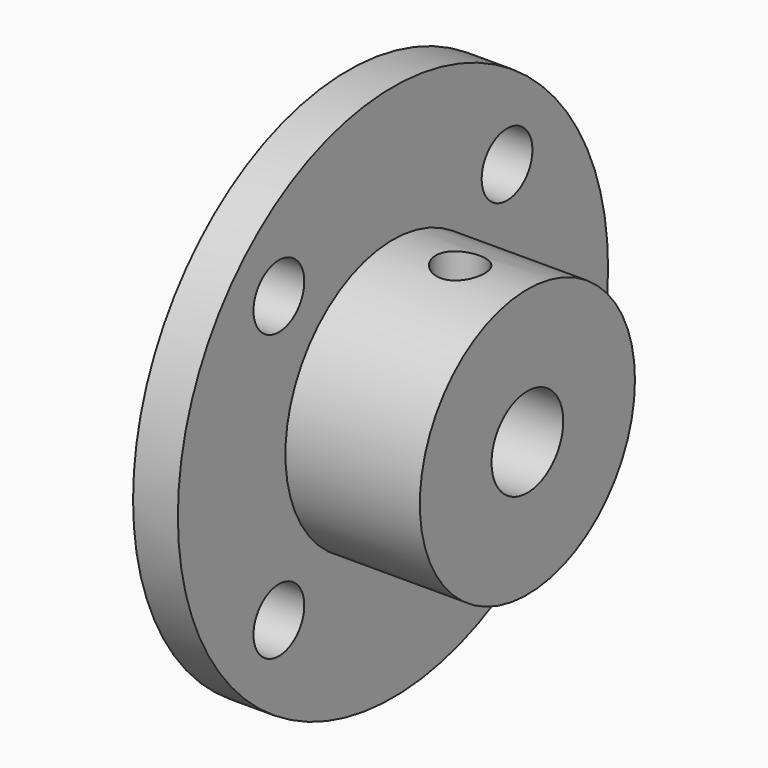
from build123d import *

# Parameters (mm, degrees)
F0_R     = 19.05
F1_DEPTH = 3.175
F2_R     = 9.525
F3_DEPTH = 9.525
F5_D     = 6.35
F5_DEPTH = 9.525
F5_TIP   = 1.9077324654
F8_D     = 3.4544
F8_DEPTH = 9.525
F8_START = 0.1579085
F8_TIP   = 1.0378064612
F10_D    = 4.4958


with BuildPart() as f1:
    # F0 (on Right) → F1 (new body)
    with BuildSketch(Plane.YZ):
        Circle(F0_R)
    extrude(amount=F1_DEPTH)

    # F2 (on face) → F3 (join)
    with BuildSketch(Plane.YZ.offset(3.175)):
        Circle(F2_R)
    extrude(amount=F3_DEPTH)

    # F5
    with Locations(Plane.YZ.offset(12.7)):
        with Locations((0, 0)):
            Hole(F5_D / 2, depth=F5_DEPTH)
            with Locations((0, 0, -(F5_DEPTH + F5_TIP / 2))):  # 118° drill point
                Cone(0, F5_D / 2, F5_TIP, mode=Mode.SUBTRACT)

    # F8
    # its depths count from where the whole tool has entered the part; down to there all is cleared
    with Locations(Plane.XY.offset(9.525).offset(-F8_START)):
        with Locations((7.9375, 0)):
            Hole(F8_D / 2, depth=F8_DEPTH)
            with Locations((0, 0, -(F8_DEPTH + F8_TIP / 2))):  # 118° drill point
                Cone(0, F8_D / 2, F8_TIP, mode=Mode.SUBTRACT)

    # F10 (through all)
    with Locations(Plane.YZ.offset(3.175)):
        with Locations((-10.1027881362, 10.1027881362), (10.1027881362, 10.1027881362), (10.1027881362, -10.1027881362), (-10.1027881362, -10.1027881362)):
            Hole(F10_D / 2)


solid = f1.part
